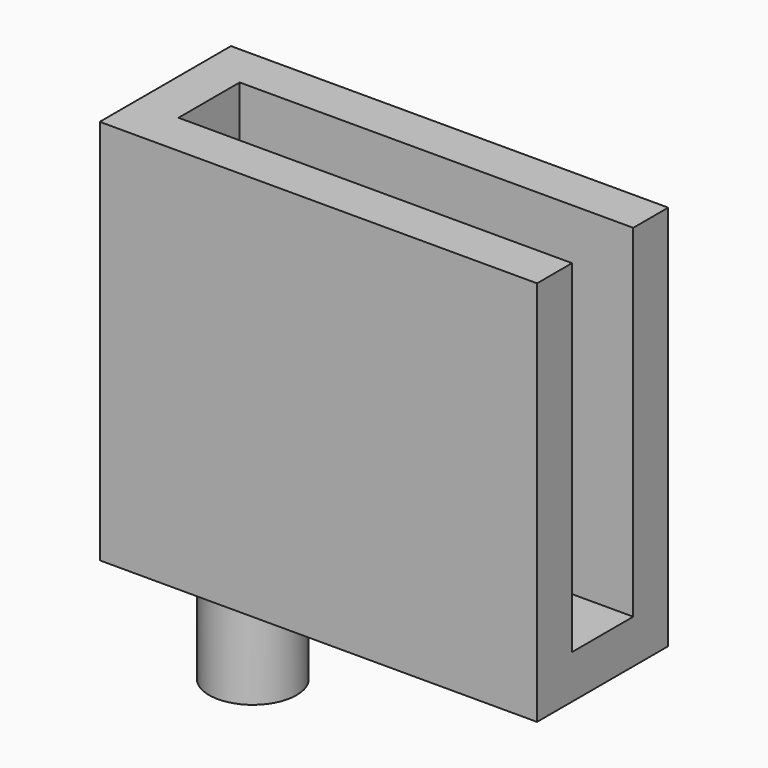
from build123d import *

# Parameters (mm, degrees)
F0_W     = 40
F0_H     = 35.319249
F1_DEPTH = 7.5
F2_W     = 36
F2_H     = 31.319249
F3_DEPTH = 3.5
F4_R     = 4
F5_DEPTH = 10


with BuildPart() as f1:
    # F0 (on Front) → F1 (new body, symmetric)
    with BuildSketch(Plane.XZ):
        with Locations((20, 17.659624)):
            Rectangle(F0_W, F0_H)
    extrude(amount=F1_DEPTH, both=True)

    # F2 (on Front) → F3 (cut, symmetric)
    with BuildSketch(Plane.XZ):
        with Locations((22, 19.659624)):
            Rectangle(F2_W, F2_H)
    extrude(amount=F3_DEPTH, both=True, mode=Mode.SUBTRACT)

    # F4 (on face) → F5 (join)
    with BuildSketch(Plane(origin=(0, 0, 0), x_dir=(1, 0, 0), z_dir=(0, 0, -1))):
        with Locations((8, 0)):
            Circle(F4_R)
    extrude(amount=F5_DEPTH)


solid = f1.part
